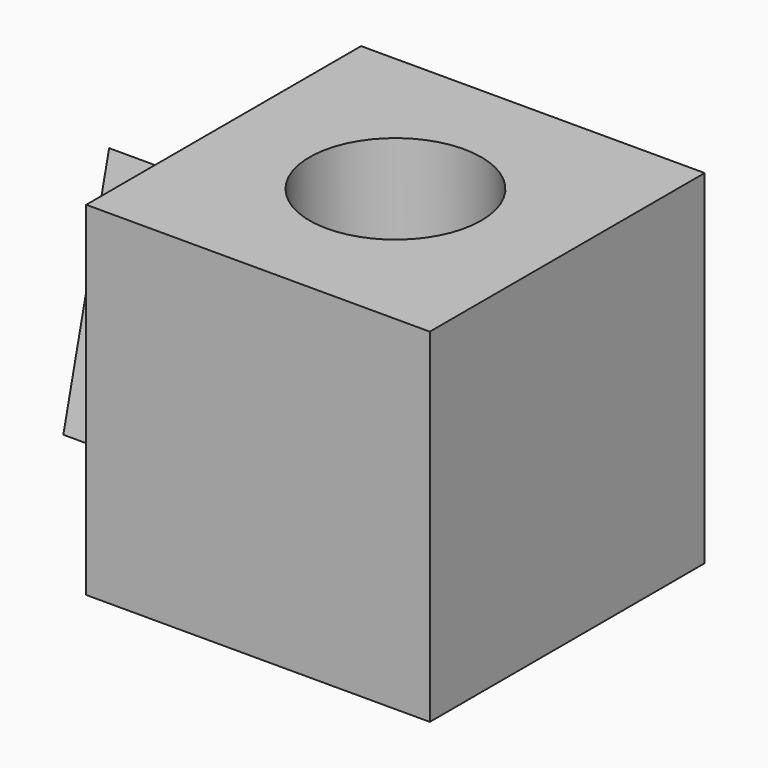
from build123d import *

# Parameters (mm, degrees)
F0_W     = 152.4
F0_H     = 152.4
F1_DEPTH = 76.2
F2_R     = 38.1
F3_DEPTH = 152.401
F5_DEPTH = 50.8


with BuildPart() as f1:
    # F0 (on Top) → F1 (new body, symmetric)
    with BuildSketch(Plane.XY):
        Rectangle(F0_W, F0_H)
    extrude(amount=F1_DEPTH, both=True)

    # F2 (on face) → F3 (cut, through all)
    with BuildSketch(Plane.XY.offset(76.2)):
        Circle(F2_R)
    extrude(amount=-F3_DEPTH, mode=Mode.SUBTRACT)

    # F4 (on face) → F5 (join)
    with BuildSketch(Plane(origin=(-76.2, 0, 0), x_dir=(0, -1, 0), z_dir=(-1, 0, 0))):
        Polygon((0, 50.8), (-25.4, -50.8), (25.4, -50.8), align=None)
    extrude(amount=F5_DEPTH)


solid = f1.part
